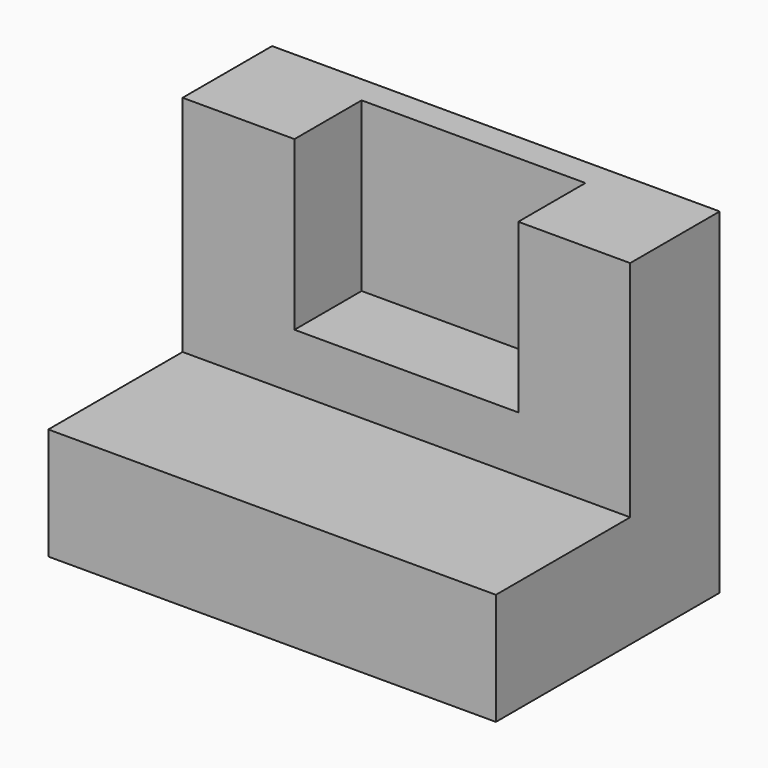
from build123d import *

# Parameters (mm, degrees)
F1_DEPTH = 101.6
F2_W     = 50.8
F2_H     = 38.1
F3_DEPTH = 19.05


with BuildPart() as f1:
    # F0 (on Right) → F1 (new body)
    with BuildSketch(Plane.YZ):
        Polygon((-16.204383, -15.124001), (-16.204383, -40.524001), (47.295617, -40.524001), (47.295617, 35.675999), (21.895617, 35.675999), (21.895617, -15.124001), align=None)
        Polygon((-16.204383, -15.124001), (-16.204383, -40.524001), (47.295617, -40.524001), (47.295617, 35.675999), (21.895617, 35.675999), (21.895617, -15.124001), align=None)
    extrude(amount=-F1_DEPTH)

    # F2 (on face) → F3 (cut)
    with BuildSketch(Plane.XZ.offset(-21.895617)):
        with Locations((-50.8, 16.625999)):
            Rectangle(F2_W, F2_H)
    extrude(amount=-F3_DEPTH, mode=Mode.SUBTRACT)


solid = f1.part
